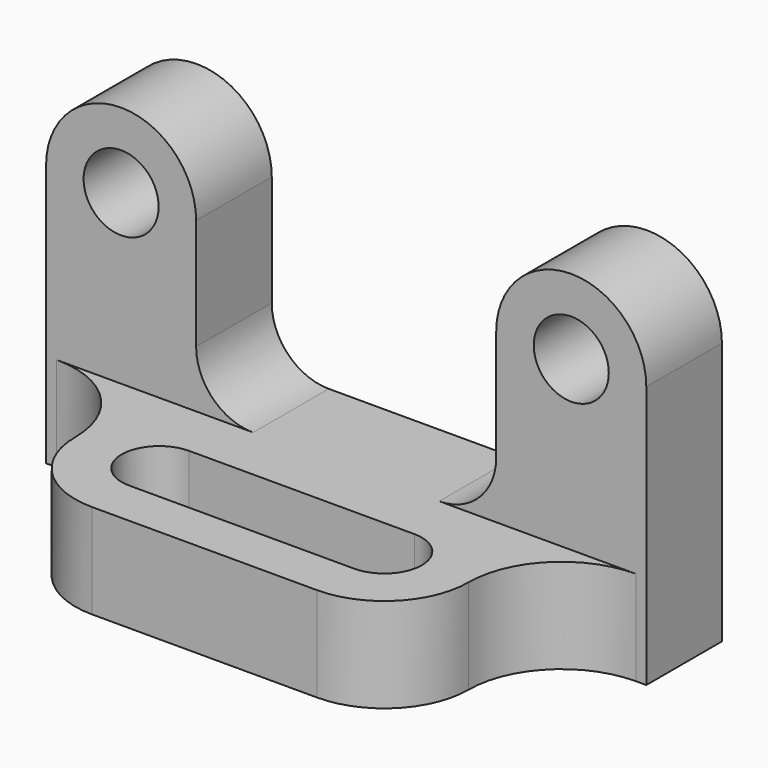
from build123d import *

# Parameters (mm, degrees)
F0_R     = 6.35
F1_DEPTH = 16.002
F2_W     = 101.6
F2_H     = 16.002
F3_DEPTH = 50.8
F5_DEPTH = 16.003


with BuildPart() as f1:
    # F0 (on Front) → F1 (new body)
    with BuildSketch(Plane.XZ):
        with BuildLine():
            Line((101.6, 0), (101.6, 44.45))
            ThreePointArc((101.6, 44.45), (88.9, 57.15), (76.2, 44.45))
            Line((76.2, 44.45), (76.2, 25.654))
            ThreePointArc((76.2, 25.654), (73.372995, 18.829005), (66.548, 16.002))
            Line((66.548, 16.002), (35.052, 16.002))
            ThreePointArc((35.052, 16.002), (28.227005, 18.829005), (25.4, 25.654))
            Line((25.4, 25.654), (25.4, 44.45))
            ThreePointArc((25.4, 44.45), (12.7, 57.15), (0, 44.45))
            Line((0, 44.45), (0, 0))
            Line((0, 0), (101.6, 0))
        make_face()
        with Locations((12.7, 44.45)):
            Circle(F0_R, mode=Mode.SUBTRACT)
        with Locations((88.9, 44.45)):
            Circle(F0_R, mode=Mode.SUBTRACT)
    extrude(amount=F1_DEPTH)

    # F2 (on face) → F3 (join)
    with BuildSketch(Plane.XZ.offset(16.002)):
        with Locations((50.8, 8.001)):
            Rectangle(F2_W, F2_H)
    extrude(amount=F3_DEPTH)

    # F4 (on face) → F5 (cut, through all)
    with BuildSketch(Plane.XY.offset(16.002)):
        with BuildLine():
            ThreePointArc((31.75, -45.974), (21.692113, -41.807887), (17.526, -31.75))
            ThreePointArc((17.526, -31.75), (12.913518, -20.614482), (1.778, -16.002))
            Line((1.778, -16.002), (0, -16.002))
            Line((0, -16.002), (0, -66.802))
            Line((0, -66.802), (101.6, -66.802))
            Line((101.6, -66.802), (101.6, -16.002))
            Line((101.6, -16.002), (99.822, -16.002))
            ThreePointArc((99.822, -16.002), (88.686482, -20.614482), (84.074, -31.75))
            ThreePointArc((84.074, -31.75), (79.907887, -41.807887), (69.85, -45.974))
            Line((69.85, -45.974), (31.75, -45.974))
        make_face()
        with BuildLine():
            Line((69.85, -25.4), (31.75, -25.4))
            ThreePointArc((31.75, -25.4), (25.4, -31.75), (31.75, -38.1))
            Line((31.75, -38.1), (69.85, -38.1))
            ThreePointArc((69.85, -38.1), (76.2, -31.75), (69.85, -25.4))
        make_face()
    extrude(amount=-F5_DEPTH, mode=Mode.SUBTRACT)


solid = f1.part
